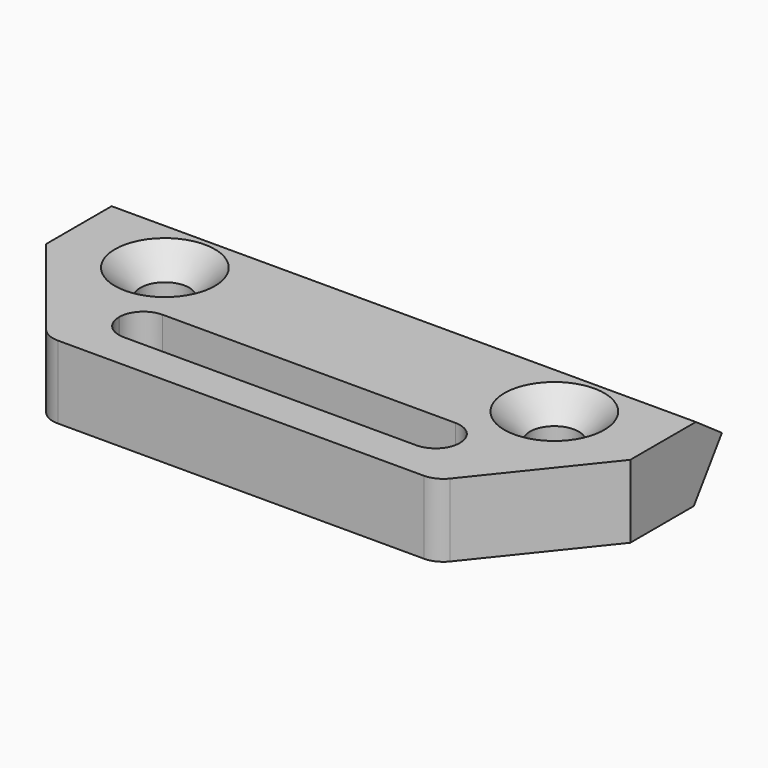
from build123d import *

# Parameters (mm, degrees)
F0_W            = 14
F0_H            = 2
F1_DEPTH        = 3
F2_R            = 0.99
F4_DEPTH        = 25
F4_DEPTH_BACK   = 25
F5_R            = 1
F7_DEPTH        = 25
F7_DEPTH_BACK   = 25
F10_D           = 2
F10_DEPTH       = 4
F10_CSINK_D     = 4.1
F10_CSINK_ANGLE = 90
F10_TIP         = 0.600860619


with BuildPart() as f1:
    # F0 (on Top) → F1 (new body)
    with BuildSketch(Plane.XY):
        Polygon((8, 0.4693894553), (12, 5.4693894553), (12, 10.4693894553), (-12, 10.4693894553), (-12, 5.4693894553), (-8, 0.4693894553), align=None)
        with Locations((0, 2.9693894553)):
            Rectangle(F0_W, F0_H, mode=Mode.SUBTRACT)
    extrude(amount=F1_DEPTH)

    # F2
    f2_edges = [f1.edges().sort_by_distance(p)[0] for p in [
        (-7, 3.969389, 1.5),
        (-7, 1.969389, 1.5),
        (7, 3.969389, 1.5),
        (7, 1.969389, 1.5),
    ]]
    fillet(f2_edges, radius=F2_R)

    # F3 (on Right) → F4 (cut, two sides)
    with BuildSketch(Plane.YZ) as f4_sk:
        Polygon((10.9693894553, -0.8042101245), (10.9693894553, 3.1957898755), (8.1685593025, -0.8042101245), align=None)
    extrude(amount=-F4_DEPTH, mode=Mode.SUBTRACT)
    extrude(f4_sk.sketch, amount=F4_DEPTH_BACK, mode=Mode.SUBTRACT)

    # F5
    f5_edges = [f1.edges().sort_by_distance(p)[0] for p in [
        (8, 0.469389, 1.5),
        (-8, 0.469389, 1.5),
    ]]
    fillet(f5_edges, radius=F5_R)

    # F6 (on Right) → F7 (cut, two sides)
    with BuildSketch(Plane.YZ) as f7_sk:
        Polygon((12.1216029626, 3.5), (8.1216029626, 3.5), (12.1216029626, 0.6991698472), align=None)
    extrude(amount=F7_DEPTH, mode=Mode.SUBTRACT)
    extrude(f7_sk.sketch, amount=-F7_DEPTH_BACK, mode=Mode.SUBTRACT)

    # F10
    with Locations(Plane.XY.offset(3)):
        with Locations((-8, 6.5693894553), (8, 6.5693894553)):
            CounterSinkHole(F10_D / 2, F10_CSINK_D / 2, depth=F10_DEPTH, counter_sink_angle=F10_CSINK_ANGLE)
            with Locations((0, 0, -(F10_DEPTH + F10_TIP / 2))):  # 118° drill point
                Cone(0, F10_D / 2, F10_TIP, mode=Mode.SUBTRACT)


solid = f1.part
